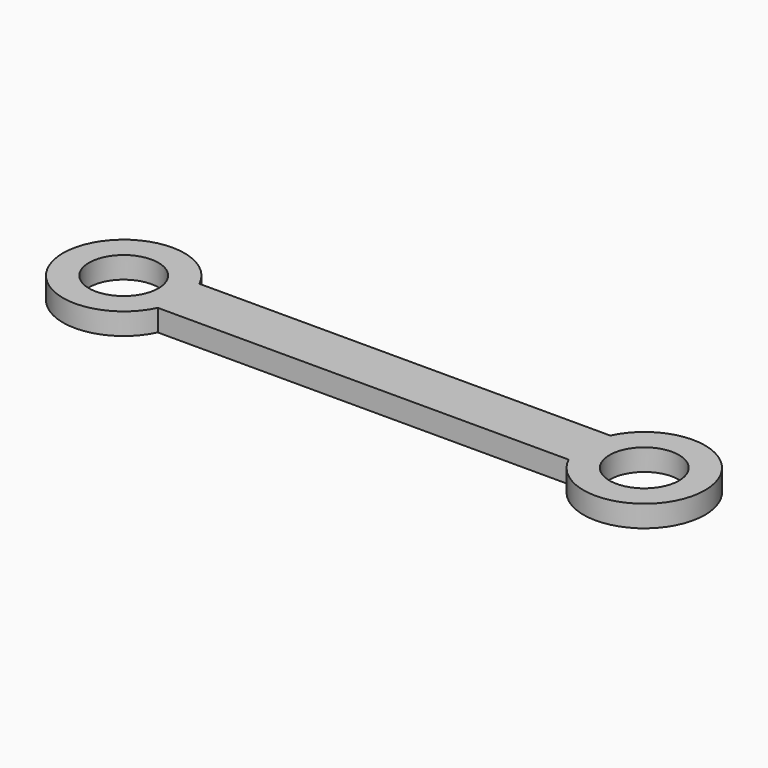
from build123d import *

# Parameters (mm, degrees)
SKETCH_R  = 8
PAD_DEPTH = 5


with BuildPart() as part:
    # Sketch → Pad (new body)
    with BuildSketch(Plane.XY):
        with BuildLine():
            ThreePointArc((-12.649111, -6), (14, 0), (-12.649111, 6))
            Line((-107.350889, 6), (-12.649111, 6))
            ThreePointArc((-107.350889, 6), (-134, 0), (-107.350889, -6))
            Line((-12.649111, -6), (-107.350889, -6))
        make_face()
        Circle(SKETCH_R, mode=Mode.SUBTRACT)
        with Locations((-120, 0)):
            Circle(SKETCH_R, mode=Mode.SUBTRACT)
    extrude(amount=PAD_DEPTH)


solid = part.part
